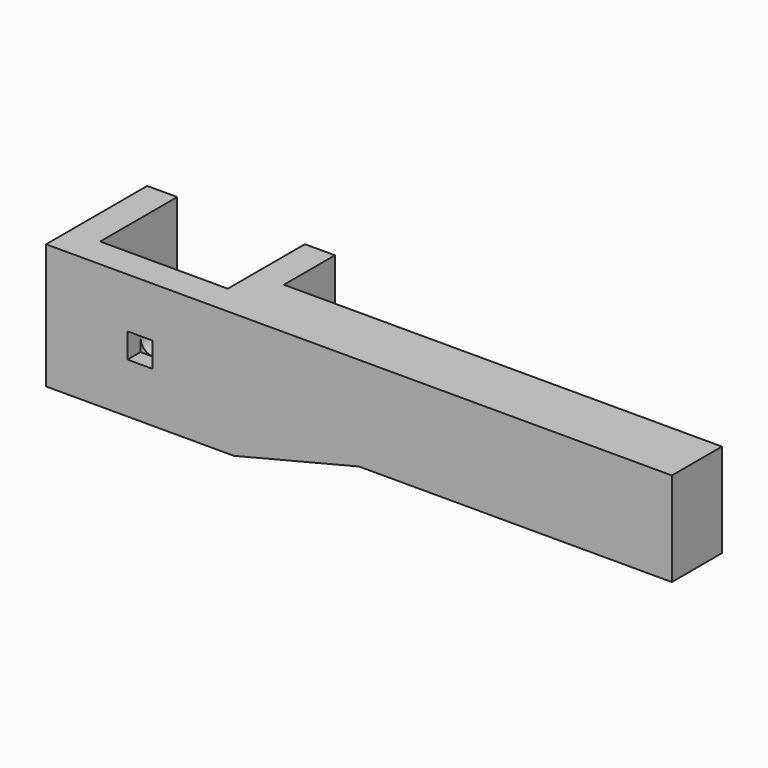
from build123d import *

# Parameters (mm, degrees)
F1_DEPTH = 12.7
F2_R     = 2.5
F3_DEPTH = 25.655
F4_W     = 5.0546
F4_H     = 5.0546
F5_DEPTH = 3.302
F6_W     = 88.9
F6_H     = 12.7
F7_DEPTH = 19.05
F9_DEPTH = 6.35


with BuildPart() as f1:
    # F0 (on Top) → F1 (new body, symmetric)
    with BuildSketch(Plane.XY):
        Polygon((12.954, 9.779), (12.954, -9.779), (-12.954, -9.779), (-12.954, 9.779), (-19.05, 9.779), (-19.05, -15.875), (19.05, -15.875), (19.05, 9.779), align=None)
    extrude(amount=F1_DEPTH, both=True)

    # F2 (on face) → F3 (cut, through all)
    with BuildSketch(Plane.XZ.offset(15.875)):
        Circle(F2_R)
    extrude(amount=-F3_DEPTH, mode=Mode.SUBTRACT)

    # F4 (on face) → F5 (cut)
    with BuildSketch(Plane.XZ.offset(15.875)):
        Rectangle(F4_W, F4_H)
    extrude(amount=-F5_DEPTH, mode=Mode.SUBTRACT)

    # F6 (on face) → F7 (join)
    with BuildSketch(Plane.XY.offset(12.7)):
        with Locations((63.5, -9.525)):
            Rectangle(F6_W, F6_H)
    extrude(amount=-F7_DEPTH)

    # F8 (on face) → F9 (join)
    with BuildSketch(Plane.XZ.offset(15.875)):
        Polygon((19.05, -6.35), (19.05, -12.7), (44.45, -6.35), align=None)
    extrude(amount=-F9_DEPTH)


solid = f1.part
